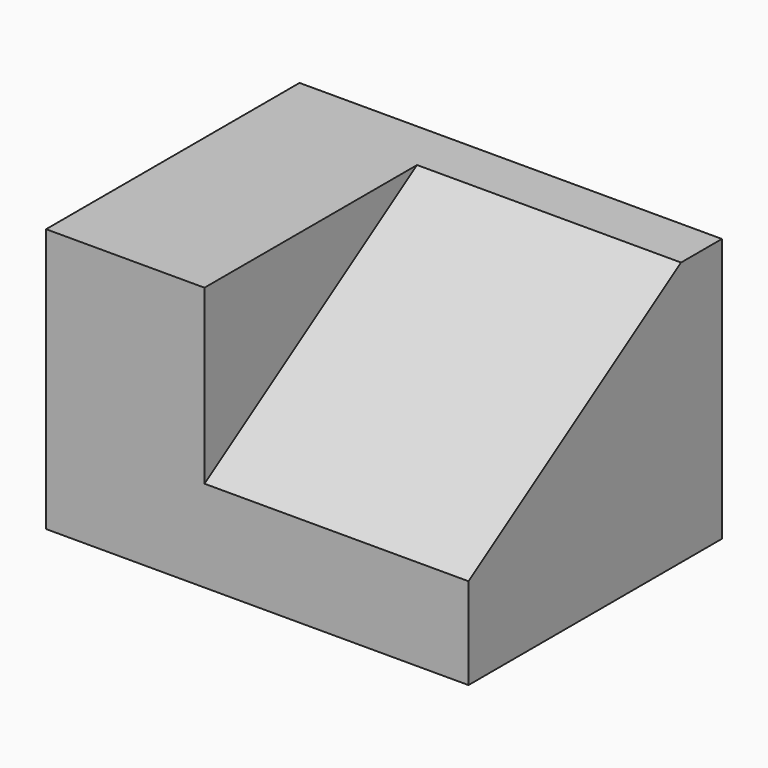
from build123d import *

# Parameters (mm, degrees)
F0_W     = 38.1
F0_H     = 31.75
F1_DEPTH = 25.4
F3_DEPTH = 25.4
F4_DEPTH = 6.35


with BuildPart() as f1:
    # F0 (on Right) → F1 (new body)
    with BuildSketch(Plane.YZ):
        with Locations((-43.4044748545, 19.3160282822)):
            Rectangle(F0_W, F0_H)
    extrude(amount=F1_DEPTH)

    # F2 (on face) → F3 (join)
    with BuildSketch(Plane.YZ.offset(25.4)):
        Polygon((-24.3544748545, 35.1910282822), (-30.5013419502, 35.1910282822), (-62.4544748545, 14.43994885), (-62.4544748545, 3.4410282822), (-24.3544748545, 3.4410282822), align=None)
    extrude(amount=F3_DEPTH)

    # F4 (cut): a face of the model
    f4_faces = [f1.faces().sort_by_distance(p)[0] for p in [
        (25.4, -51.8034305531, 28.2740018048),
    ]]
    extrude(f4_faces, amount=-F4_DEPTH, mode=Mode.SUBTRACT)


solid = f1.part
